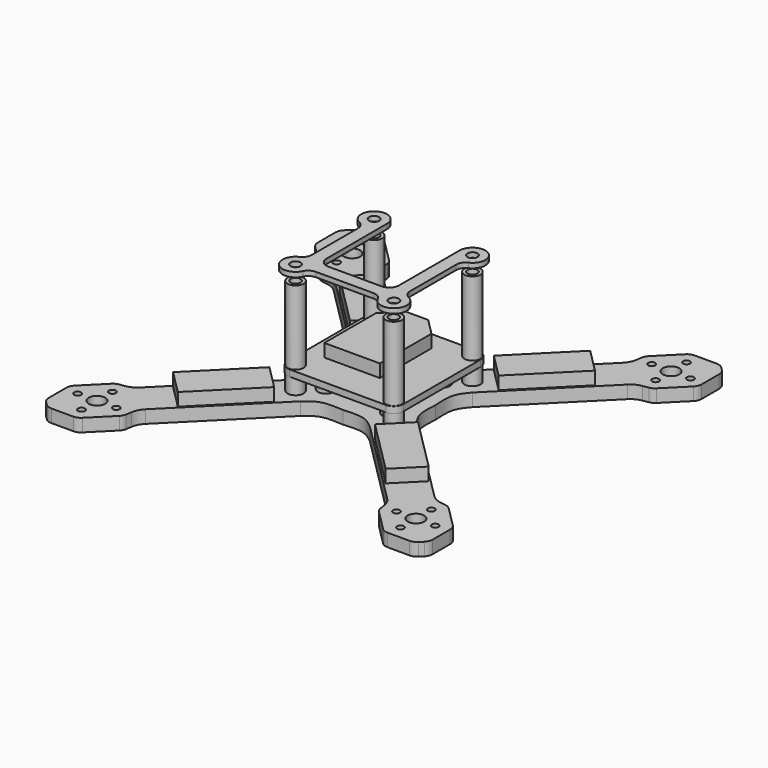
from build123d import *

# Parameters (mm, degrees)
F0_R      = 1.075
F0_R_2    = 2.575
F0_R_3    = 1.575
F2_DEPTH  = 4
F5_DEPTH  = 4
F7_R      = 1.575
F8_DEPTH  = 2
F9_R      = 1.575
F10_DEPTH = 2
F12_DEPTH = 4
F13_R     = 2.5
F13_R_2   = 1.55
F14_DEPTH = 30
F15_R     = 2.5
F15_R_2   = 1.55
F16_DEPTH = 5
F18_R     = 1.575
F19_DEPTH = 1.5


with BuildPart() as f2:
    # F0 (on Top) → F2 (new body)
    with BuildSketch(Plane.XY):
        with BuildLine():
            add(Edge.make_bspline(
                [(0, 16), (2.3510574085, 15.9325532334), (6.8692782252, 15.3643635456), (9.9648448839, 18.2602136611), (10.7801281389, 18.9118561226)],
                knots=[0, 0, 0, 0, 0.5485663606, 1, 1, 1, 1], degree=3))
            add(Edge.make_bspline(
                [(0, 16), (-2.3510574085, 15.9325532334), (-6.8692782252, 15.3643635456), (-9.9648448839, 18.2602136611), (-10.7801281389, 18.9118561226)],
                knots=[0, 0, 0, 0, 0.5485663606, 1, 1, 1, 1], degree=3))
            Line((-10.7801281389, 18.9118561226), (-37.5000927175, 45.6318207012))
            ThreePointArc((-37.5000927175, 45.6318207012), (-38.6000832127, 47.1438402043), (-39.1812178375, 48.9210471747))
            Line((-39.1812178375, 48.9210471747), (-39.4645239676, 50.6812885711))
            ThreePointArc((-39.4645239676, 50.6812885711), (-39.7550912801, 51.5698920562), (-40.3050865276, 52.3259018078))
            Line((-40.3050865276, 52.3259018078), (-46.6690475583, 58.6898628385))
            ThreePointArc((-46.6690475583, 58.6898628385), (-47.6423176048, 59.3401810925), (-48.7903679019, 59.5685424949))
            Line((-48.7903679019, 59.5685424949), (-55.5931144107, 59.5685424949))
            ThreePointArc((-55.5931144107, 59.5685424949), (-56.7411647078, 59.3401810925), (-57.7144347543, 58.6898628385))
            Line((-57.7144347543, 58.6898628385), (-58.2021487964, 58.2021487964))
            Line((-58.2021487964, 58.2021487964), (-58.6898628385, 57.7144347543))
            ThreePointArc((-58.6898628385, 57.7144347543), (-59.3401810925, 56.7411647078), (-59.5685424949, 55.5931144107))
            Line((-59.5685424949, 55.5931144107), (-59.5685424949, 48.7903679019))
            ThreePointArc((-59.5685424949, 48.7903679019), (-59.3401810925, 47.6423176048), (-58.6898628385, 46.6690475583))
            Line((-58.6898628385, 46.6690475583), (-52.3259018078, 40.3050865276))
            ThreePointArc((-52.3259018078, 40.3050865276), (-51.5698920562, 39.7550912801), (-50.6812885711, 39.4645239676))
            Line((-50.6812885711, 39.4645239676), (-48.9210471747, 39.1812178375))
            ThreePointArc((-48.9210471747, 39.1812178375), (-47.1438402043, 38.6000832127), (-45.6318207012, 37.5000927175))
            Line((-45.6318207012, 37.5000927175), (-18.9118561226, 10.7801281389))
            add(Edge.make_bspline(
                [(-16, 0), (-15.9325532334, 2.3510574085), (-15.3643635456, 6.8692782252), (-18.2602136611, 9.9648448839), (-18.9118561226, 10.7801281389)],
                knots=[0, 0, 0, 0, 0.5485663606, 1, 1, 1, 1], degree=3))
            add(Edge.make_bspline(
                [(-16, 0), (-15.9325532334, -2.3510574085), (-15.3643635456, -6.8692782252), (-18.2602136611, -9.9648448839), (-18.9118561226, -10.7801281389)],
                knots=[0, 0, 0, 0, 0.5485663606, 1, 1, 1, 1], degree=3))
            Line((-18.9118561226, -10.7801281389), (-45.6318207012, -37.5000927175))
            ThreePointArc((-45.6318207012, -37.5000927175), (-47.1438402043, -38.6000832127), (-48.9210471747, -39.1812178375))
            Line((-48.9210471747, -39.1812178375), (-50.6812885711, -39.4645239676))
            ThreePointArc((-50.6812885711, -39.4645239676), (-51.5698920562, -39.7550912801), (-52.3259018078, -40.3050865276))
            Line((-52.3259018078, -40.3050865276), (-58.6898628385, -46.6690475583))
            ThreePointArc((-58.6898628385, -46.6690475583), (-59.3401810925, -47.6423176048), (-59.5685424949, -48.7903679019))
            Line((-59.5685424949, -48.7903679019), (-59.5685424949, -55.5931144107))
            ThreePointArc((-59.5685424949, -55.5931144107), (-59.3401810925, -56.7411647078), (-58.6898628385, -57.7144347543))
            Line((-58.6898628385, -57.7144347543), (-58.2021487964, -58.2021487964))
            Line((-58.2021487964, -58.2021487964), (-57.7144347543, -58.6898628385))
            ThreePointArc((-57.7144347543, -58.6898628385), (-56.7411647078, -59.3401810925), (-55.5931144107, -59.5685424949))
            Line((-55.5931144107, -59.5685424949), (-48.7903679019, -59.5685424949))
            ThreePointArc((-48.7903679019, -59.5685424949), (-47.6423176048, -59.3401810925), (-46.6690475583, -58.6898628385))
            Line((-46.6690475583, -58.6898628385), (-40.3050865276, -52.3259018078))
            ThreePointArc((-40.3050865276, -52.3259018078), (-39.7550912801, -51.5698920562), (-39.4645239676, -50.6812885711))
            Line((-39.4645239676, -50.6812885711), (-39.1812178375, -48.9210471747))
            ThreePointArc((-39.1812178375, -48.9210471747), (-38.6000832127, -47.1438402043), (-37.5000927175, -45.6318207012))
            Line((-37.5000927175, -45.6318207012), (-10.7801281389, -18.9118561226))
            add(Edge.make_bspline(
                [(0, -16), (-2.3510574085, -15.9325532334), (-6.8692782252, -15.3643635456), (-9.9648448839, -18.2602136611), (-10.7801281389, -18.9118561226)],
                knots=[0, 0, 0, 0, 0.5485663606, 1, 1, 1, 1], degree=3))
            add(Edge.make_bspline(
                [(0, -16), (2.3510574085, -15.9325532334), (6.8692782252, -15.3643635456), (9.9648448839, -18.2602136611), (10.7801281389, -18.9118561226)],
                knots=[0, 0, 0, 0, 0.5485663606, 1, 1, 1, 1], degree=3))
            Line((10.7801281389, -18.9118561226), (37.5000927175, -45.6318207012))
            ThreePointArc((37.5000927175, -45.6318207012), (38.6000832127, -47.1438402043), (39.1812178375, -48.9210471747))
            Line((39.1812178375, -48.9210471747), (39.4645239676, -50.6812885711))
            ThreePointArc((39.4645239676, -50.6812885711), (39.7550912801, -51.5698920562), (40.3050865276, -52.3259018078))
            Line((40.3050865276, -52.3259018078), (46.6690475583, -58.6898628385))
            ThreePointArc((46.6690475583, -58.6898628385), (47.6423176048, -59.3401810925), (48.7903679019, -59.5685424949))
            Line((48.7903679019, -59.5685424949), (55.5931144107, -59.5685424949))
            ThreePointArc((55.5931144107, -59.5685424949), (56.7411647078, -59.3401810925), (57.7144347543, -58.6898628385))
            Line((57.7144347543, -58.6898628385), (58.2021487964, -58.2021487964))
            Line((58.2021487964, -58.2021487964), (58.6898628385, -57.7144347543))
            ThreePointArc((58.6898628385, -57.7144347543), (59.3401810925, -56.7411647078), (59.5685424949, -55.5931144107))
            Line((59.5685424949, -55.5931144107), (59.5685424949, -48.7903679019))
            ThreePointArc((59.5685424949, -48.7903679019), (59.3401810925, -47.6423176048), (58.6898628385, -46.6690475583))
            Line((58.6898628385, -46.6690475583), (52.3259018078, -40.3050865276))
            ThreePointArc((52.3259018078, -40.3050865276), (51.5698920562, -39.7550912801), (50.6812885711, -39.4645239676))
            Line((50.6812885711, -39.4645239676), (48.9210471747, -39.1812178375))
            ThreePointArc((48.9210471747, -39.1812178375), (47.1438402043, -38.6000832127), (45.6318207012, -37.5000927175))
            Line((45.6318207012, -37.5000927175), (18.9118561226, -10.7801281389))
            add(Edge.make_bspline(
                [(16, 0), (15.9325532334, -2.3510574085), (15.3643635456, -6.8692782252), (18.2602136611, -9.9648448839), (18.9118561226, -10.7801281389)],
                knots=[0, 0, 0, 0, 0.5485663606, 1, 1, 1, 1], degree=3))
            add(Edge.make_bspline(
                [(16, 0), (15.9325532334, 2.3510574085), (15.3643635456, 6.8692782252), (18.2602136611, 9.9648448839), (18.9118561226, 10.7801281389)],
                knots=[0, 0, 0, 0, 0.5485663606, 1, 1, 1, 1], degree=3))
            Line((18.9118561226, 10.7801281389), (45.6318207012, 37.5000927175))
            ThreePointArc((45.6318207012, 37.5000927175), (47.1438402043, 38.6000832127), (48.9210471747, 39.1812178375))
            Line((48.9210471747, 39.1812178375), (50.6812885711, 39.4645239676))
            ThreePointArc((50.6812885711, 39.4645239676), (51.5698920562, 39.7550912801), (52.3259018078, 40.3050865276))
            Line((52.3259018078, 40.3050865276), (58.6898628385, 46.6690475583))
            ThreePointArc((58.6898628385, 46.6690475583), (59.3401810925, 47.6423176048), (59.5685424949, 48.7903679019))
            Line((59.5685424949, 48.7903679019), (59.5685424949, 55.5931144107))
            ThreePointArc((59.5685424949, 55.5931144107), (59.3401810925, 56.7411647078), (58.6898628385, 57.7144347543))
            Line((58.6898628385, 57.7144347543), (58.2021487964, 58.2021487964))
            Line((58.2021487964, 58.2021487964), (57.7144347543, 58.6898628385))
            ThreePointArc((57.7144347543, 58.6898628385), (56.7411647078, 59.3401810925), (55.5931144107, 59.5685424949))
            Line((55.5931144107, 59.5685424949), (48.7903679019, 59.5685424949))
            ThreePointArc((48.7903679019, 59.5685424949), (47.6423176048, 59.3401810925), (46.6690475583, 58.6898628385))
            Line((46.6690475583, 58.6898628385), (40.3050865276, 52.3259018078))
            ThreePointArc((40.3050865276, 52.3259018078), (39.7550912801, 51.5698920562), (39.4645239676, 50.6812885711))
            Line((39.4645239676, 50.6812885711), (39.1812178375, 48.9210471747))
            ThreePointArc((39.1812178375, 48.9210471747), (38.6000832127, 47.1438402043), (37.5000927175, 45.6318207012))
            Line((37.5000927175, 45.6318207012), (10.7801281389, 18.9118561226))
        make_face()
        with Locations((-49.4974746831, -55.4974746831)):
            Circle(F0_R, mode=Mode.SUBTRACT)
        with Locations((-55.4974746831, -49.4974746831)):
            Circle(F0_R, mode=Mode.SUBTRACT)
        with Locations((-49.4974746831, -49.4974746831)):
            Circle(F0_R_2, mode=Mode.SUBTRACT)
        with Locations((-43.4974746831, -49.4974746831)):
            Circle(F0_R, mode=Mode.SUBTRACT)
        with Locations((-49.4974746831, -43.4974746831)):
            Circle(F0_R, mode=Mode.SUBTRACT)
        with Locations((-15.25, -15.25)):
            Circle(F0_R_3, mode=Mode.SUBTRACT)
        with Locations((-10, -10)):
            Circle(F0_R_3, mode=Mode.SUBTRACT)
        with Locations((43.4974746831, -49.4974746831)):
            Circle(F0_R, mode=Mode.SUBTRACT)
        with Locations((49.4974746831, -55.4974746831)):
            Circle(F0_R, mode=Mode.SUBTRACT)
        with Locations((49.4974746831, -49.4974746831)):
            Circle(F0_R_2, mode=Mode.SUBTRACT)
        with Locations((55.4974746831, -49.4974746831)):
            Circle(F0_R, mode=Mode.SUBTRACT)
        with Locations((49.4974746831, -43.4974746831)):
            Circle(F0_R, mode=Mode.SUBTRACT)
        with Locations((15.25, -15.25)):
            Circle(F0_R_3, mode=Mode.SUBTRACT)
        with Locations((10, -10)):
            Circle(F0_R_3, mode=Mode.SUBTRACT)
        with Locations((-10, 10)):
            Circle(F0_R_3, mode=Mode.SUBTRACT)
        with Locations((-15.25, 15.25)):
            Circle(F0_R_3, mode=Mode.SUBTRACT)
        with Locations((-49.4974746831, 43.4974746831)):
            Circle(F0_R, mode=Mode.SUBTRACT)
        with Locations((-55.4974746831, 49.4974746831)):
            Circle(F0_R, mode=Mode.SUBTRACT)
        with Locations((-49.4974746831, 49.4974746831)):
            Circle(F0_R_2, mode=Mode.SUBTRACT)
        with Locations((-49.4974746831, 55.4974746831)):
            Circle(F0_R, mode=Mode.SUBTRACT)
        with Locations((-43.4974746831, 49.4974746831)):
            Circle(F0_R, mode=Mode.SUBTRACT)
        with Locations((10, 10)):
            Circle(F0_R_3, mode=Mode.SUBTRACT)
        with Locations((15.25, 15.25)):
            Circle(F0_R_3, mode=Mode.SUBTRACT)
        with Locations((49.4974746831, 43.4974746831)):
            Circle(F0_R, mode=Mode.SUBTRACT)
        with Locations((43.4974746831, 49.4974746831)):
            Circle(F0_R, mode=Mode.SUBTRACT)
        with Locations((49.4974746831, 49.4974746831)):
            Circle(F0_R_2, mode=Mode.SUBTRACT)
        with Locations((55.4974746831, 49.4974746831)):
            Circle(F0_R, mode=Mode.SUBTRACT)
        with Locations((49.4974746831, 55.4974746831)):
            Circle(F0_R, mode=Mode.SUBTRACT)
    extrude(amount=-F2_DEPTH)

    # F11 (on Top) → F12 (join)
    with BuildSketch(Plane.XY):
        Polygon((-32.2538463515, 39.6784675539), (-39.6784675539, 32.2538463515), (-23.0614581961, 15.6368369936), (-15.6368369936, 23.0614581961), align=None)
        Polygon((15.6368369936, 23.0614581961), (23.0614581961, 15.6368369936), (39.6784675539, 32.2538463515), (32.2538463515, 39.6784675539), align=None)
        Polygon((39.6784675539, -32.2538463515), (23.0614581961, -15.6368369936), (15.6368369936, -23.0614581961), (32.2538463515, -39.6784675539), align=None)
        Polygon((-23.0614581961, -15.6368369936), (-39.6784675539, -32.2538463515), (-32.2538463515, -39.6784675539), (-15.6368369936, -23.0614581961), align=None)
    extrude(amount=F12_DEPTH)


with BuildPart() as f5:
    # F4 (on offset) → F5 (new body)
    with BuildSketch(Plane.XY.offset(10)):
        Polygon((-8.6249997839, 7.6324934885), (-8.6249997839, -12.3675065115), (8.6250002161, -12.3675065115), (8.6250002161, 7.6324934885), (3.5000002161, 12.7824934885), (-3.4999997839, 12.7824934885), align=None)
    extrude(amount=F5_DEPTH)


with BuildPart() as f8:
    # F7 (on offset) → F8 (new body)
    with BuildSketch(Plane.XY.offset(5)):
        Polygon((-10.5, 13.5), (-13.5, 10.5), (-13.5, -10.5), (-10.5, -13.5), (10.5, -13.5), (13.5, -10.5), (13.5, 10.5), (10.5, 13.5), align=None)
        with Locations((-10, -10)):
            Circle(F7_R, mode=Mode.SUBTRACT)
        with Locations((10, -10)):
            Circle(F7_R, mode=Mode.SUBTRACT)
        with Locations((-10, 10)):
            Circle(F7_R, mode=Mode.SUBTRACT)
        with Locations((10, 10)):
            Circle(F7_R, mode=Mode.SUBTRACT)
    extrude(amount=F8_DEPTH)


with BuildPart() as f10:
    # F9 (on offset) → F10 (new body)
    with BuildSketch(Plane.XY.offset(5)):
        with BuildLine():
            ThreePointArc((18, 15), (17.1213203436, 17.1213203436), (15, 18))
            Line((15, 18), (-15, 18))
            ThreePointArc((-15, 18), (-17.1213203436, 17.1213203436), (-18, 15))
            Line((-18, 15), (-18, -15))
            ThreePointArc((-18, -15), (-17.1213203436, -17.1213203436), (-15, -18))
            Line((-15, -18), (15, -18))
            ThreePointArc((15, -18), (17.1213203436, -17.1213203436), (18, -15))
            Line((18, -15), (18, 15))
        make_face()
        with Locations((-15.25, -15.25)):
            Circle(F9_R, mode=Mode.SUBTRACT)
        with Locations((15.25, -15.25)):
            Circle(F9_R, mode=Mode.SUBTRACT)
        with Locations((-15.25, 15.25)):
            Circle(F9_R, mode=Mode.SUBTRACT)
        with Locations((15.25, 15.25)):
            Circle(F9_R, mode=Mode.SUBTRACT)
    extrude(amount=F10_DEPTH)


with BuildPart() as f14:
    # F13 (on Top) → F14 (new body)
    with BuildSketch(Plane.XY):
        with Locations((15.25, 15.25)):
            Circle(F13_R)
        with Locations((15.25, 15.25)):
            Circle(F13_R_2, mode=Mode.SUBTRACT)
    extrude(amount=F14_DEPTH)


with BuildPart() as f14b:
    # F13 (on Top) → F14, piece 2 (new body)
    with BuildSketch(Plane.XY):
        with Locations((15.25, -15.25)):
            Circle(F13_R)
        with Locations((15.25, -15.25)):
            Circle(F13_R_2, mode=Mode.SUBTRACT)
    extrude(amount=F14_DEPTH)


with BuildPart() as f14c:
    # F13 (on Top) → F14, piece 3 (new body)
    with BuildSketch(Plane.XY):
        with Locations((-15.25, -15.25)):
            Circle(F13_R)
        with Locations((-15.25, -15.25)):
            Circle(F13_R_2, mode=Mode.SUBTRACT)
    extrude(amount=F14_DEPTH)


with BuildPart() as f14d:
    # F13 (on Top) → F14, piece 4 (new body)
    with BuildSketch(Plane.XY):
        with Locations((-15.25, 15.25)):
            Circle(F13_R)
        with Locations((-15.25, 15.25)):
            Circle(F13_R_2, mode=Mode.SUBTRACT)
    extrude(amount=F14_DEPTH)


with BuildPart() as f16:
    # F15 (on Top) → F16 (new body)
    with BuildSketch(Plane.XY):
        with Locations((10, 10)):
            Circle(F15_R)
        with Locations((10, 10)):
            Circle(F15_R_2, mode=Mode.SUBTRACT)
    extrude(amount=F16_DEPTH)


with BuildPart() as f16b:
    # F15 (on Top) → F16, piece 2 (new body)
    with BuildSketch(Plane.XY):
        with Locations((10, -10)):
            Circle(F15_R)
        with Locations((10, -10)):
            Circle(F15_R_2, mode=Mode.SUBTRACT)
    extrude(amount=F16_DEPTH)


with BuildPart() as f16c:
    # F15 (on Top) → F16, piece 3 (new body)
    with BuildSketch(Plane.XY):
        with Locations((-10, -10)):
            Circle(F15_R)
        with Locations((-10, -10)):
            Circle(F15_R_2, mode=Mode.SUBTRACT)
    extrude(amount=F16_DEPTH)


with BuildPart() as f16d:
    # F15 (on Top) → F16, piece 4 (new body)
    with BuildSketch(Plane.XY):
        with Locations((-10, 10)):
            Circle(F15_R)
        with Locations((-10, 10)):
            Circle(F15_R_2, mode=Mode.SUBTRACT)
    extrude(amount=F16_DEPTH)


with BuildPart() as f19:
    # F18 (on offset) → F19 (new body)
    with BuildSketch(Plane.XY.offset(33)):
        with BuildLine():
            Line((-11.25, -8.25), (-11.25, 15.25))
            ThreePointArc((-11.25, 15.25), (-17.3880899353, 18.6306170189), (-16.9642857143, 11.6359683884))
            ThreePointArc((-16.9642857143, 11.6359683884), (-15.7145372358, 10.5290121311), (-15.25, 8.9254446797))
            Line((-15.25, 8.9254446797), (-15.25, -8.9254446797))
            ThreePointArc((-15.25, -8.9254446797), (-15.7145372358, -10.5290121311), (-16.9642857143, -11.6359683884))
            ThreePointArc((-16.9642857143, -11.6359683884), (-18.0784271247, -18.0784271247), (-11.6359683884, -16.9642857143))
            ThreePointArc((-11.6359683884, -16.9642857143), (-10.5290121311, -15.7145372358), (-8.9254446797, -15.25))
            Line((-8.9254446797, -15.25), (8.9254446797, -15.25))
            ThreePointArc((8.9254446797, -15.25), (10.5290121311, -15.7145372358), (11.6359683884, -16.9642857143))
            ThreePointArc((11.6359683884, -16.9642857143), (18.0784271247, -18.0784271247), (16.9642857143, -11.6359683884))
            ThreePointArc((16.9642857143, -11.6359683884), (15.7145372358, -10.5290121311), (15.25, -8.9254446797))
            Line((15.25, -8.9254446797), (15.25, 8.9254446797))
            ThreePointArc((15.25, 8.9254446797), (15.7145372358, 10.5290121311), (16.9642857143, 11.6359683884))
            ThreePointArc((16.9642857143, 11.6359683884), (17.3880899353, 18.6306170189), (11.25, 15.25))
            Line((11.25, 15.25), (11.25, -8.25))
            ThreePointArc((11.25, -8.25), (10.3713203436, -10.3713203436), (8.25, -11.25))
            Line((8.25, -11.25), (-8.25, -11.25))
            ThreePointArc((-8.25, -11.25), (-10.3713203436, -10.3713203436), (-11.25, -8.25))
        make_face()
        with Locations((-15.25, -15.25)):
            Circle(F18_R, mode=Mode.SUBTRACT)
        with Locations((15.25, -15.25)):
            Circle(F18_R, mode=Mode.SUBTRACT)
        with Locations((-15.25, 15.25)):
            Circle(F18_R, mode=Mode.SUBTRACT)
        with Locations((15.25, 15.25)):
            Circle(F18_R, mode=Mode.SUBTRACT)
    extrude(amount=F19_DEPTH)


solid = Compound([f2.part, f5.part, f8.part, f10.part, f14.part, f14b.part, f14c.part, f14d.part, f16.part, f16b.part, f16c.part, f16d.part, f19.part])
